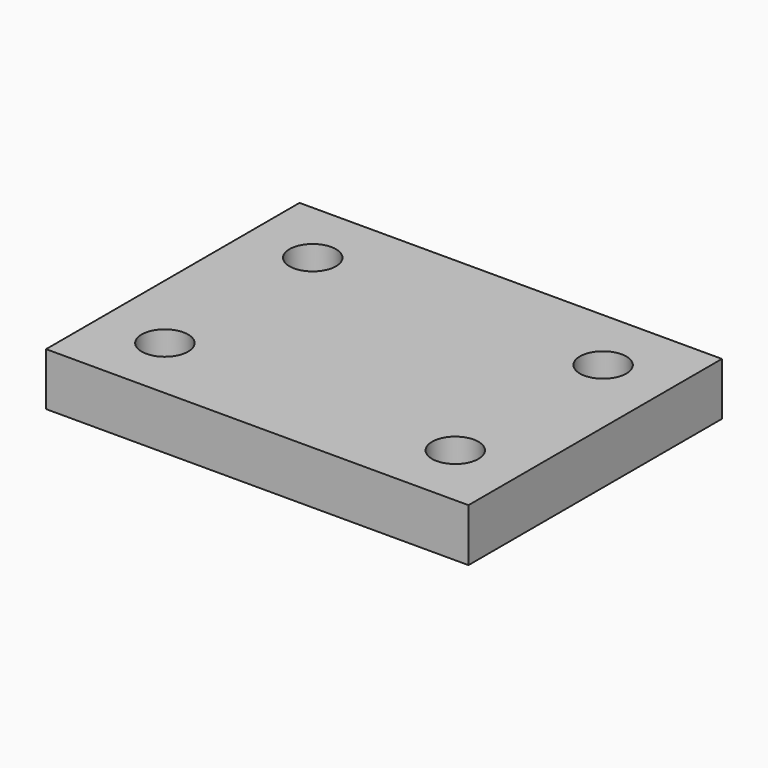
from build123d import *

# Parameters (mm, degrees)
F0_W           = 80
F0_H           = 60
F0_W_2         = 55
F0_H_2         = 35
F1_DEPTH       = 10
F2_D           = 8.8
F2_CSINK_D     = 17.92
F2_CSINK_ANGLE = 90


with BuildPart() as f1:
    # F0 (on Top) → F1 (new body)
    with BuildSketch(Plane.XY):
        with Locations((40, 30)):
            Rectangle(F0_W, F0_H)
        with Locations((40, 30)):
            Rectangle(F0_W_2, F0_H_2, mode=Mode.SUBTRACT)
        with Locations((40, 30)):
            Rectangle(F0_W_2, F0_H_2)
    extrude(amount=F1_DEPTH)

    # F2 (through all)
    with Locations(Plane(origin=(0, 0, 0), x_dir=(1, 0, 0), z_dir=(0, 0, -1))):
        with Locations((12.5, -12.5), (67.5, -12.5), (67.5, -47.5), (12.5, -47.5)):
            CounterSinkHole(F2_D / 2, F2_CSINK_D / 2, counter_sink_angle=F2_CSINK_ANGLE)


solid = f1.part
